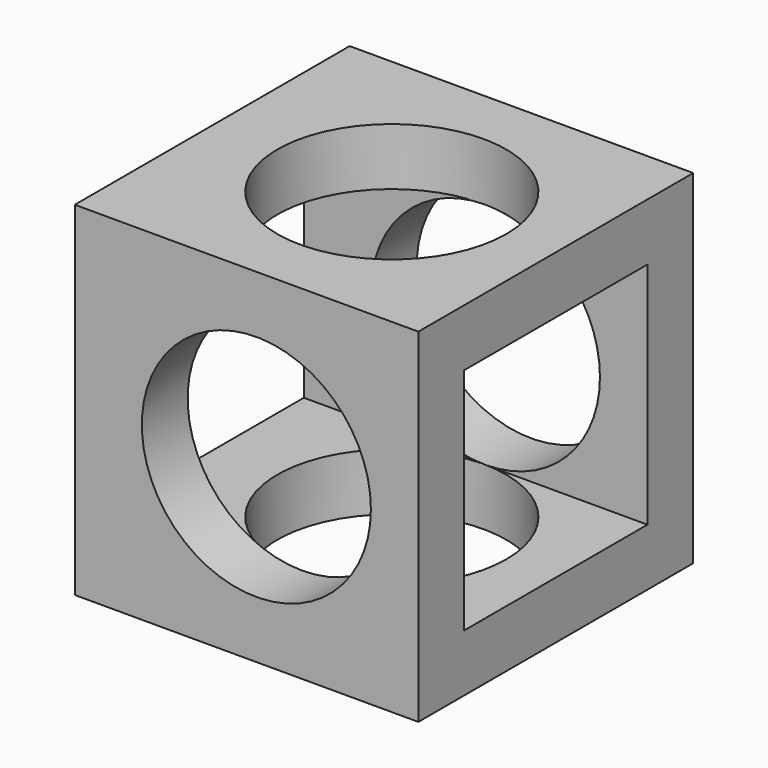
from build123d import *

# Parameters (mm, degrees)
F0_W     = 76.2
F0_H     = 76.2
F1_DEPTH = 38.1
F2_R     = 25.4
F3_DEPTH = 101.6
F4_R     = 25.4
F5_DEPTH = 101.6
F6_W     = 50.8
F6_H     = 50.8
F7_DEPTH = 101.6


with BuildPart() as f1:
    # F0 (on Front) → F1 (new body, symmetric)
    with BuildSketch(Plane.XZ):
        Rectangle(F0_W, F0_H)
    extrude(amount=F1_DEPTH, both=True)

    # F2 (on face) → F3 (cut)
    with BuildSketch(Plane.XZ.offset(38.1)):
        with Locations((2.174198, 0)):
            Circle(F2_R)
    extrude(amount=-F3_DEPTH, mode=Mode.SUBTRACT)

    # F4 (on face) → F5 (cut)
    with BuildSketch(Plane.XY.offset(38.1)):
        with Locations((1.735254, 0)):
            Circle(F4_R)
    extrude(amount=-F5_DEPTH, mode=Mode.SUBTRACT)

    # F6 (on face) → F7 (cut)
    with BuildSketch(Plane.YZ.offset(38.1)):
        Rectangle(F6_W, F6_H)
    extrude(amount=-F7_DEPTH, mode=Mode.SUBTRACT)


solid = f1.part
